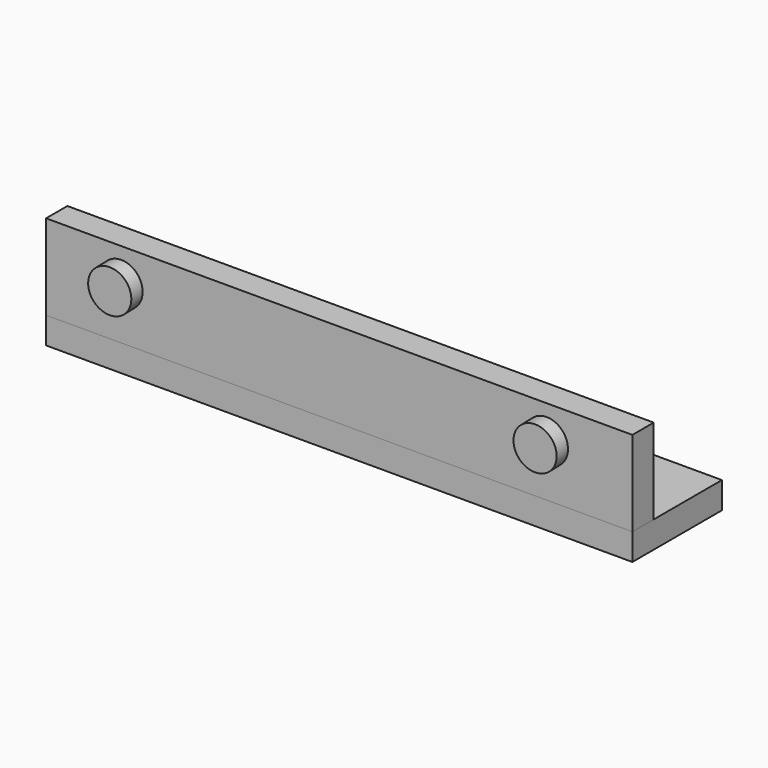
from build123d import *

# Parameters (mm, degrees)
BOX_W                       = 55
BOX_H                       = 2.5
BOX_DEPTH                   = 10.5
CYLINDER_R                  = 2
CYLINDER_DEPTH              = 5
CYLINDER_ROLL_ANGLE         = -91.032434
CYLINDER_PITCH_ANGLE        = 52.465256
CYLINDER_PLACEMENT_ANGLE    = -179.910384
BOX001_W                    = 55
BOX001_H                    = 10.5
BOX001_DEPTH                = 2.5
CYLINDER001_R               = 2
CYLINDER001_DEPTH           = 5
CYLINDER001_ROLL_ANGLE      = -91.032434
CYLINDER001_PITCH_ANGLE     = 52.465256
CYLINDER001_PLACEMENT_ANGLE = -179.910384


with BuildPart() as vertical_cube:
    # Box → Box (new body)
    with BuildSketch(Plane(origin=(0, 0.5, 0), x_dir=(1, 0, 0), z_dir=(0, 0, 1))):
        with Locations((27.5, 1.25)):
            Rectangle(BOX_W, BOX_H)
    extrude(amount=BOX_DEPTH)


with BuildPart() as cylinder:
    # Cylinder → Cylinder (new body)
    with BuildSketch(Plane.XY):
        Circle(CYLINDER_R)
    extrude(amount=CYLINDER_DEPTH)


with BuildPart() as cylinder_1:
    # Cylinder roll: moved
    add(cylinder.part.rotate(Axis((0, 0, 0), (1, 0, 0)), CYLINDER_ROLL_ANGLE))


with BuildPart() as cylinder_2:
    # Cylinder pitch: moved
    add(cylinder_1.part.rotate(Axis((0, 0, 0), (0, 1, 0)), CYLINDER_PITCH_ANGLE))


with BuildPart() as cylinder_3:
    # Cylinder placement: moved
    add(cylinder_2.part.moved(Location((46.9, 4.11494, 7.4))).rotate(Axis((46.9, 4.11494, 7.4), (0, 0, 1)), CYLINDER_PLACEMENT_ANGLE))


with BuildPart() as horizontal_cube:
    # Box001 → Box001 (new body)
    with BuildSketch(Plane(origin=(0, 0.5, 0), x_dir=(1, 0, 0), z_dir=(0, 0, 1))):
        with Locations((27.5, 5.25)):
            Rectangle(BOX001_W, BOX001_H)
    extrude(amount=BOX001_DEPTH)


with BuildPart() as cylinder001:
    # Cylinder001 → Cylinder001 (new body)
    with BuildSketch(Plane.XY):
        Circle(CYLINDER001_R)
    extrude(amount=CYLINDER001_DEPTH)


with BuildPart() as cylinder001_1:
    # Cylinder001 roll: moved
    add(cylinder001.part.rotate(Axis((0, 0, 0), (1, 0, 0)), CYLINDER001_ROLL_ANGLE))


with BuildPart() as cylinder001_2:
    # Cylinder001 pitch: moved
    add(cylinder001_1.part.rotate(Axis((0, 0, 0), (0, 1, 0)), CYLINDER001_PITCH_ANGLE))


with BuildPart() as cylinder001_3:
    # Cylinder001 placement: moved
    add(cylinder001_2.part.moved(Location((7, 4.11494, 7.4))).rotate(Axis((7, 4.11494, 7.4), (0, 0, 1)), CYLINDER001_PLACEMENT_ANGLE))


solid = Compound([vertical_cube.part, cylinder_3.part, horizontal_cube.part, cylinder001_3.part])
